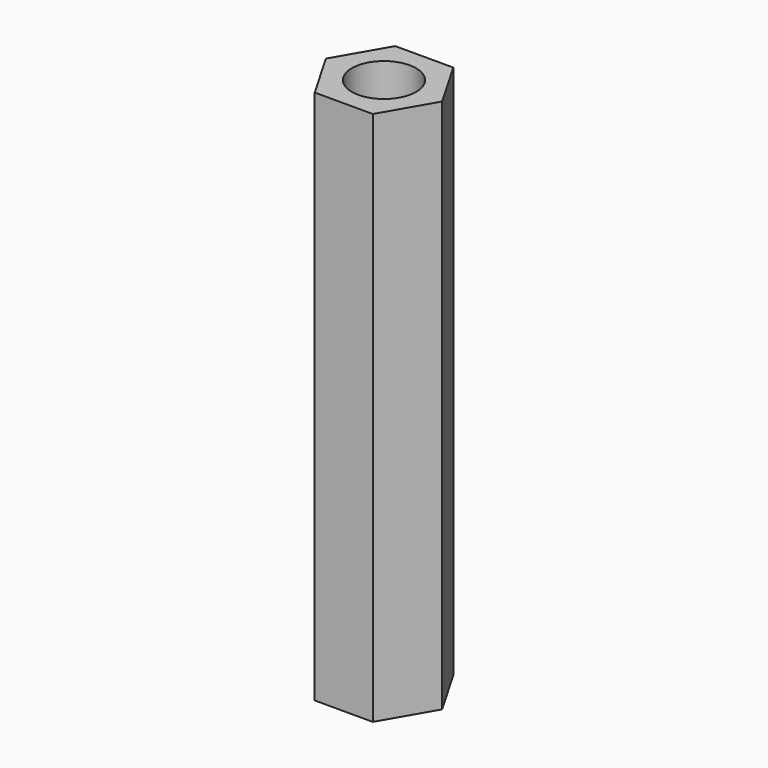
from build123d import *

# Parameters (mm, degrees)
SKETCH_R  = 1.5
PAD_DEPTH = 25


with BuildPart() as part:
    # Sketch → Pad (new body)
    with BuildSketch(Plane.XY):
        Polygon((1.356773, -2.35), (2.713546, 0), (1.356773, 2.35), (-1.356773, 2.35), (-2.713546, 0), (-1.356773, -2.35), align=None)
        Circle(SKETCH_R, mode=Mode.SUBTRACT)
    extrude(amount=PAD_DEPTH)


solid = part.part
